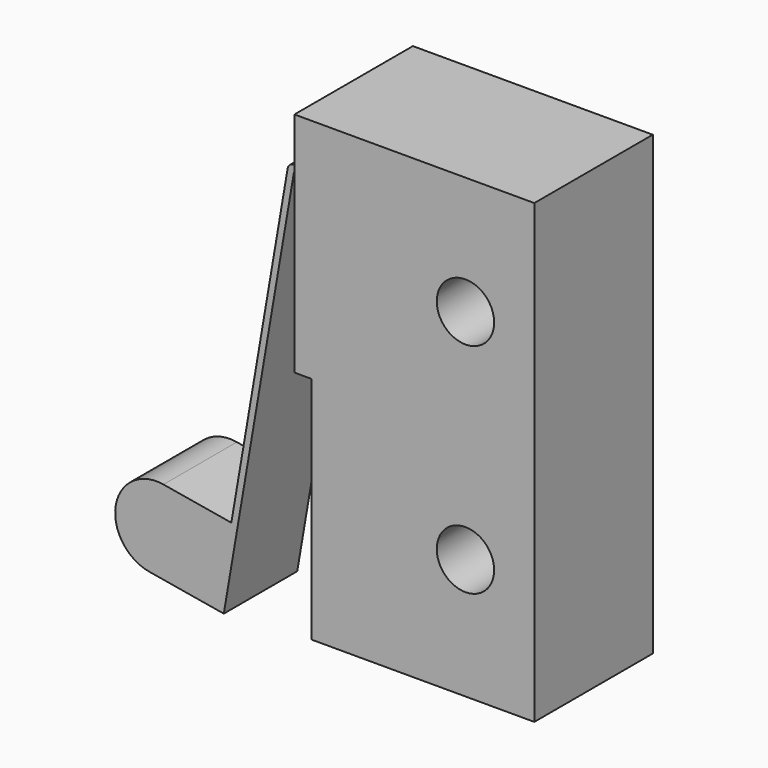
from build123d import *

# Parameters (mm, degrees)
F0_W      = 10.45
F0_H      = 19.9
F1_DEPTH  = 6.45
F2_W      = 6.45
F2_H      = 10
F3_DEPTH  = 0.75
F4_W      = 4
F4_H      = 0.28
F5_DEPTH  = 1
F7_DEPTH  = 4
F8_W      = 4
F8_H      = 3.6
F9_DEPTH  = 4.8
F11_D     = 2.5
F13_DEPTH = 4


with BuildPart() as f1:
    # F0 (on Front) → F1 (new body)
    with BuildSketch(Plane.XZ):
        Rectangle(F0_W, F0_H)
    extrude(amount=F1_DEPTH)

    # F2 (on face) → F3 (cut)
    with BuildSketch(Plane(origin=(-5.225, 0, 0), x_dir=(0, -1, 0), z_dir=(-1, 0, 0))):
        with Locations((3.225, -4.95)):
            Rectangle(F2_W, F2_H)
    extrude(amount=-F3_DEPTH, mode=Mode.SUBTRACT)

    # F4 (on face) → F5 (join)
    with BuildSketch(Plane(origin=(-5.225, 0, 0), x_dir=(0, -1, 0), z_dir=(-1, 0, 0))):
        with Locations((3.225, 7.06)):
            Rectangle(F4_W, F4_H)
    extrude(amount=F5_DEPTH)

    # F6 (on face) → F7 (join)
    with BuildSketch(Plane.XZ.offset(5.225)):
        with BuildLine():
            Line((-9.2832269147, -11.0147129744), (-6.225, 6.92))
            Line((-6.225, 6.92), (-6.225, 7.2))
            ThreePointArc((-6.225, 7.2), (-6.4055844086, 7.1339842783), (-6.5010158882, 6.967066224))
            Line((-6.5010158882, 6.967066224), (-9.5592428029, -10.9676467504))
            Line((-9.5592428029, -10.9676467504), (-9.2832269147, -11.0147129744))
        make_face()
    extrude(amount=-F7_DEPTH)

    # F8 (on face) → F9 (join)
    with BuildSketch(Plane(origin=(-7.4717823939, 0, 1.2740881915), x_dir=(0, -1, 0), z_dir=(-0.9857710294, 0, 0.1680936572))):
        with Locations((3.225, -10.6184365097)):
            Rectangle(F8_W, F8_H)
    extrude(amount=F9_DEPTH)

    # F11 (through all)
    with Locations(Plane.XZ.offset(6.45)):
        with Locations((2.225, -4.7), (2.225, 4.8)):
            Hole(F11_D / 2)

    # F12 (on face) → F13 (cut, through all)
    with BuildSketch(Plane.XZ.offset(5.225)):
        with BuildLine():
            Line((-13.6858065784, -6.6120214902), (-13.9883751686, -8.3864093861))
            ThreePointArc((-13.9883751686, -8.3864093861), (-13.2547207126, -7.2203479586), (-11.9114187254, -6.9145900731))
            Line((-11.9114187254, -6.9145900731), (-13.6858065784, -6.6120214902))
        make_face()
        with BuildLine():
            Line((-13.9883751686, -8.3864093861), (-14.2909437441, -10.1607971961))
            Line((-14.2909437441, -10.1607971961), (-12.5165558912, -10.463365779))
            ThreePointArc((-12.5165558912, -10.463365779), (-13.6826172757, -9.7297113304), (-13.9883751686, -8.3864093861))
        make_face()
    extrude(amount=-F13_DEPTH, mode=Mode.SUBTRACT)


solid = f1.part
